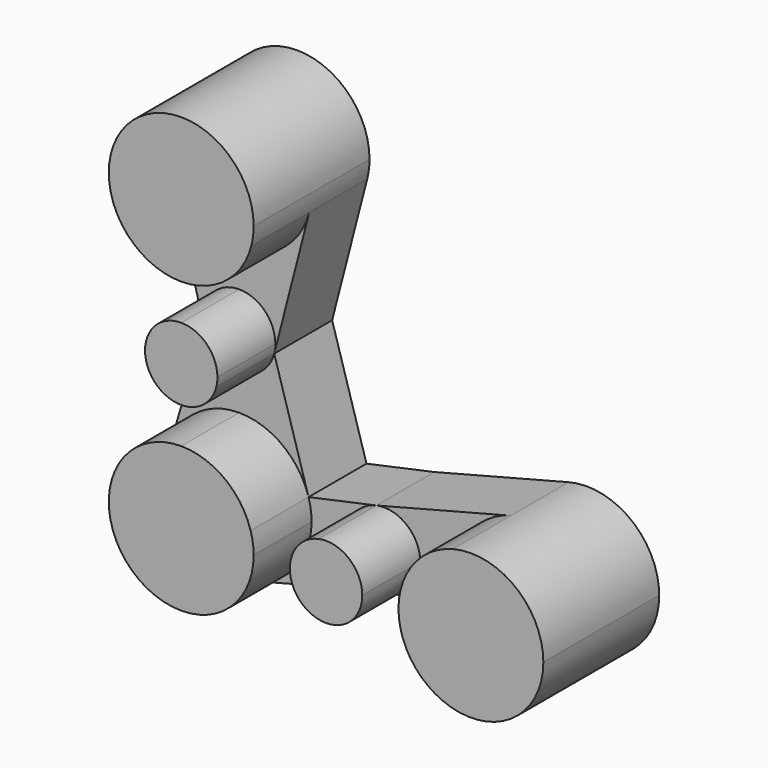
from build123d import *

# Parameters (mm, degrees)
F1_DEPTH = 50.8
F2_DEPTH = 25.4


with BuildPart() as f1:
    # F0 (on Front) → F1 (new body)
    with BuildSketch(Plane.XZ):
        with BuildLine():
            ThreePointArc((-146.799955, 2.038383), (-131.245695, 7.35792), (-122.206511, 21.088383))
            ThreePointArc((-122.206511, 21.088383), (-121.6024, 24.237874), (-121.399955, 27.438383))
            ThreePointArc((-121.399955, 27.438383), (-150.000464, 52.635937), (-171.393399, 21.088383))
            ThreePointArc((-171.393399, 21.088383), (-162.354215, 7.35792), (-146.799955, 2.038383))
        make_face()
        with BuildLine():
            ThreePointArc((-159.096677, -26.536617), (-154.577085, -33.401848), (-146.799955, -36.061617))
            Line((-146.799955, -36.061617), (-146.799955, -23.361617))
            Line((-146.799955, -23.361617), (-146.799955, -10.661617))
            ThreePointArc((-146.799955, -10.661617), (-156.840186, -15.584487), (-159.096677, -26.536617))
        make_face()
        with BuildLine():
            Line((-146.799955, -23.361617), (-146.799955, -36.061617))
            ThreePointArc((-146.799955, -36.061617), (-139.022825, -33.401848), (-134.503233, -26.536617))
            ThreePointArc((-134.503233, -26.536617), (-134.201178, -24.961871), (-134.099955, -23.361617))
            ThreePointArc((-134.099955, -23.361617), (-137.819699, -14.381361), (-146.799955, -10.661617))
            Line((-146.799955, -10.661617), (-146.799955, -23.361617))
        make_face()
        with BuildLine():
            Line((-121.399955, -74.161617), (-146.799955, -74.161617))
            Line((-146.799955, -74.161617), (-146.799955, -48.761617))
            ThreePointArc((-146.799955, -48.761617), (-161.977249, -53.794738), (-171.139648, -66.899432))
            ThreePointArc((-171.139648, -66.899432), (-165.092099, -91.784257), (-140.449955, -98.755061))
            ThreePointArc((-140.449955, -98.755061), (-126.719492, -89.715877), (-121.399955, -74.161617))
        make_face()
        with BuildLine():
            Line((-146.799955, -48.761617), (-146.799955, -74.161617))
            Line((-146.799955, -74.161617), (-121.399955, -74.161617))
            ThreePointArc((-121.399955, -74.161617), (-121.666429, -70.492026), (-122.460261, -66.899432))
            ThreePointArc((-122.460261, -66.899432), (-131.622661, -53.794738), (-146.799955, -48.761617))
        make_face()
        with BuildLine():
            ThreePointArc((-98.688937, -61.749551), (-105.885299, -66.188539), (-108.699955, -74.161617))
            Line((-108.699955, -74.161617), (-95.999955, -74.161617))
            Line((-95.999955, -74.161617), (-83.299955, -74.161617))
            ThreePointArc((-83.299955, -74.161617), (-88.026877, -64.276272), (-98.688937, -61.749551))
        make_face()
        with BuildLine():
            ThreePointArc((-19.799955, -74.161617), (-29.647721, -54.079585), (-51.554917, -49.569454))
            ThreePointArc((-51.554917, -49.569454), (-65.281987, -58.609383), (-70.599955, -74.161617))
            ThreePointArc((-70.599955, -74.161617), (-65.566833, -89.338911), (-52.46214, -98.50131))
            ThreePointArc((-52.46214, -98.50131), (-30.022661, -94.528496), (-19.799955, -74.161617))
        make_face()
        with BuildLine():
            Line((-95.999955, -74.161617), (-108.699955, -74.161617))
            ThreePointArc((-108.699955, -74.161617), (-103.777085, -84.201848), (-92.824955, -86.458339))
            ThreePointArc((-92.824955, -86.458339), (-85.959723, -81.938747), (-83.299955, -74.161617))
            Line((-83.299955, -74.161617), (-95.999955, -74.161617))
        make_face()
    extrude(amount=F1_DEPTH)


with BuildPart() as f2:
    # F0 (on Front) → F2 (new body)
    with BuildSketch(Plane.XZ):
        with BuildLine():
            ThreePointArc((-134.099955, -23.361617), (-134.201178, -24.961871), (-134.503233, -26.536617))
            Line((-134.503233, -26.536617), (-122.206511, 21.088383))
            ThreePointArc((-122.206511, 21.088383), (-131.245695, 7.35792), (-146.799955, 2.038383))
            Line((-146.799955, 2.038383), (-146.799955, -10.661617))
            ThreePointArc((-146.799955, -10.661617), (-137.819699, -14.381361), (-134.099955, -23.361617))
        make_face()
        with BuildLine():
            Line((-171.393399, 21.088383), (-159.096677, -26.536617))
            ThreePointArc((-159.096677, -26.536617), (-156.840186, -15.584487), (-146.799955, -10.661617))
            Line((-146.799955, -10.661617), (-146.799955, 2.038383))
            ThreePointArc((-146.799955, 2.038383), (-162.354215, 7.35792), (-171.393399, 21.088383))
        make_face()
        with BuildLine():
            ThreePointArc((-171.139648, -66.899432), (-161.977249, -53.794738), (-146.799955, -48.761617))
            Line((-146.799955, -48.761617), (-146.799955, -36.061617))
            ThreePointArc((-146.799955, -36.061617), (-154.577085, -33.401848), (-159.096677, -26.536617))
            Line((-159.096677, -26.536617), (-171.139648, -66.899432))
        make_face()
        with BuildLine():
            Line((-146.799955, -36.061617), (-146.799955, -48.761617))
            ThreePointArc((-146.799955, -48.761617), (-131.622661, -53.794738), (-122.460261, -66.899432))
            Line((-122.460261, -66.899432), (-134.503233, -26.536617))
            ThreePointArc((-134.503233, -26.536617), (-139.022825, -33.401848), (-146.799955, -36.061617))
        make_face()
        with BuildLine():
            Line((-51.554917, -49.569454), (-98.688937, -61.749551))
            ThreePointArc((-98.688937, -61.749551), (-88.026877, -64.276272), (-83.299955, -74.161617))
            Line((-83.299955, -74.161617), (-70.599955, -74.161617))
            ThreePointArc((-70.599955, -74.161617), (-65.281987, -58.609383), (-51.554917, -49.569454))
        make_face()
        with BuildLine():
            ThreePointArc((-83.299955, -74.161617), (-85.959723, -81.938747), (-92.824955, -86.458339))
            Line((-92.824955, -86.458339), (-52.46214, -98.50131))
            ThreePointArc((-52.46214, -98.50131), (-65.566833, -89.338911), (-70.599955, -74.161617))
            Line((-70.599955, -74.161617), (-83.299955, -74.161617))
        make_face()
        with BuildLine():
            Line((-108.699955, -74.161617), (-121.399955, -74.161617))
            ThreePointArc((-121.399955, -74.161617), (-126.719492, -89.715877), (-140.449955, -98.755061))
            Line((-140.449955, -98.755061), (-92.824955, -86.458339))
            ThreePointArc((-92.824955, -86.458339), (-103.777085, -84.201848), (-108.699955, -74.161617))
        make_face()
        with BuildLine():
            ThreePointArc((-122.460261, -66.899432), (-121.666429, -70.492026), (-121.399955, -74.161617))
            Line((-121.399955, -74.161617), (-108.699955, -74.161617))
            ThreePointArc((-108.699955, -74.161617), (-105.885299, -66.188539), (-98.688937, -61.749551))
            Line((-98.688937, -61.749551), (-122.460261, -66.899432))
        make_face()
    extrude(amount=F2_DEPTH)


solid = Compound([f1.part, f2.part])
